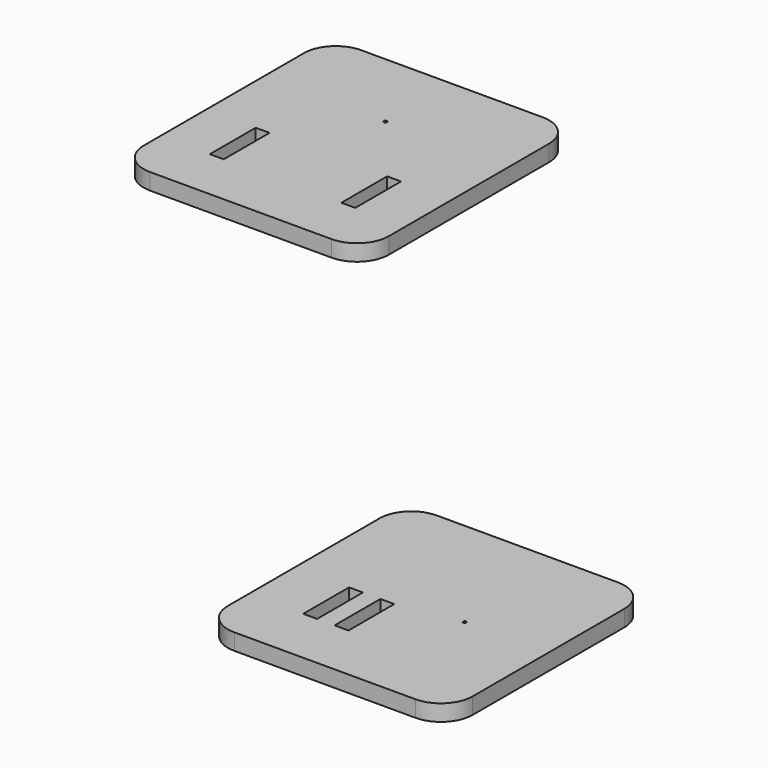
from build123d import *

# Parameters (mm, degrees)
F0_W     = 35
F0_H     = 35
F1_DEPTH = 5.14
F2_W     = 4.36
F2_H     = 18
F2_R     = 0.5
F3_DEPTH = 5.141
F4_DEPTH = 5.141


with BuildPart() as f1:
    # F0 (on Top) → F1 (new body)
    with BuildSketch(Plane.XY):
        with BuildLine():
            ThreePointArc((-169.072402, 188.226369), (-166.14347, 181.155301), (-159.072402, 178.226369))
            Line((-159.072402, 178.226369), (-101.972402, 178.226369))
            ThreePointArc((-101.972402, 178.226369), (-94.901334, 181.155301), (-91.972402, 188.226369))
            Line((-91.972402, 188.226369), (-91.972402, 251.226369))
            ThreePointArc((-91.972402, 251.226369), (-94.901334, 258.297437), (-101.972402, 261.226369))
            Line((-101.972402, 261.226369), (-159.072402, 261.226369))
            ThreePointArc((-159.072402, 261.226369), (-166.14347, 258.297437), (-169.072402, 251.226369))
            Line((-169.072402, 251.226369), (-169.072402, 188.226369))
        make_face()
        with Locations((-130.672402, 235.326369)):
            Rectangle(F0_W, F0_H, mode=Mode.SUBTRACT)
        with BuildLine():
            ThreePointArc((0, 10), (2.928932, 2.928932), (10, 0))
            Line((10, 0), (67, 0))
            ThreePointArc((67, 0), (74.071068, 2.928932), (77, 10))
            Line((77, 10), (77, 69.6))
            ThreePointArc((77, 69.6), (74.071068, 76.671068), (67, 79.6))
            Line((67, 79.6), (10, 79.6))
            ThreePointArc((10, 79.6), (2.928932, 76.671068), (0, 69.6))
            Line((0, 69.6), (0, 10))
        make_face()
        with Locations((50.8, 39.6)):
            Rectangle(F0_W, F0_H, mode=Mode.SUBTRACT)
        with Locations((50.8, 39.6)):
            Rectangle(F0_W, F0_H)
        with Locations((-130.672402, 235.326369)):
            Rectangle(F0_W, F0_H)
    extrude(amount=F1_DEPTH)

    # F2 (on face) → F3 (cut, through all)
    with BuildSketch(Plane.XY.offset(5.14)):
        with Locations((-151.352402, 203.826369)):
            Rectangle(F2_W, F2_H)
        with Locations((-109.992402, 203.826369)):
            Rectangle(F2_W, F2_H)
        with Locations((19.26, 27.275123)):
            Rectangle(F2_W, F2_H)
        with Locations((29.12, 27.275123)):
            Rectangle(F2_W, F2_H)
        with Locations((50.8, 39.6)):
            Circle(F2_R)
        with Locations((-130.672402, 235.326369)):
            Circle(F2_R)
    extrude(amount=-F3_DEPTH, mode=Mode.SUBTRACT)

    # F2 (on face) → F4 (cut, through all)
    with BuildSketch(Plane.XY.offset(5.14)):
        with Locations((19.26, 27.275123)):
            Rectangle(F2_W, F2_H)
        with Locations((29.12, 27.275123)):
            Rectangle(F2_W, F2_H)
        with Locations((50.8, 39.6)):
            Circle(F2_R)
    extrude(amount=-F4_DEPTH, mode=Mode.SUBTRACT)


solid = f1.part
